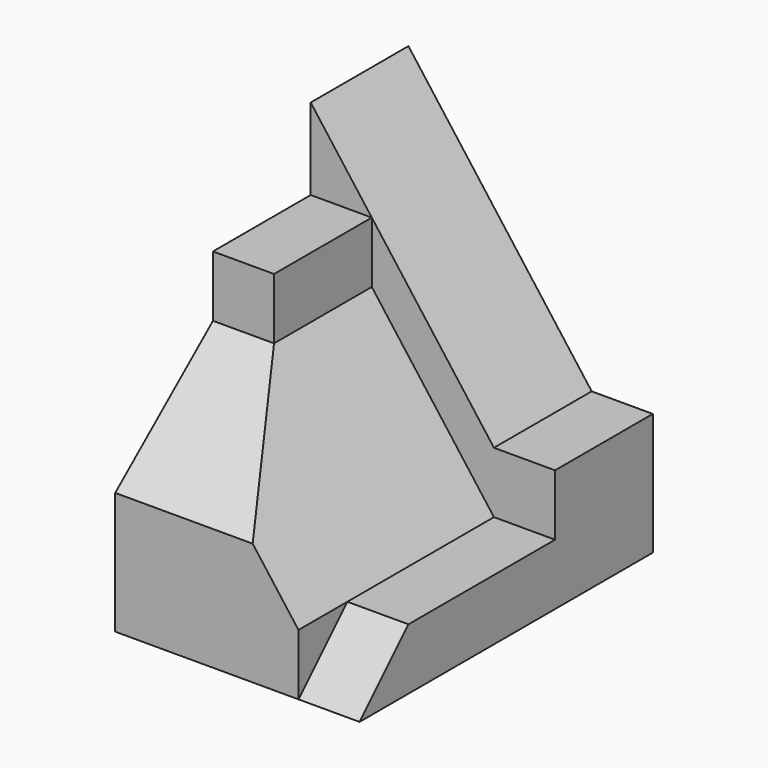
from build123d import *

# Parameters (mm, degrees)
F1_DEPTH = 30
F3_DEPTH = 20
F5_DEPTH = 20.001
F7_DEPTH = 5


with BuildPart() as f1:
    # F0 (on Front) → F1 (new body)
    with BuildSketch(Plane.XZ):
        Polygon((0, 30), (0, 0), (20, 0), (20, 10), (15, 10), align=None)
    extrude(amount=-F1_DEPTH)

    # F2 (on face) → F3 (cut)
    with BuildSketch(Plane.XZ):
        Polygon((0, 30), (0, 23.3333333333), (5, 23.3333333333), align=None)
        Polygon((15, 10), (5, 23.3333333333), (5, 18.3333333333), (15, 5), (20, 5), (20, 10), align=None)
    extrude(amount=-F3_DEPTH, mode=Mode.SUBTRACT)

    # F4 (on face) → F5 (cut, through all)
    with BuildSketch(Plane(origin=(0, 0, 0), x_dir=(0, -1, 0), z_dir=(-1, 0, 0))):
        Polygon((0, 23.3333333333), (-10, 23.3333333333), (-10, 18.3333333333), (0, 10), align=None)
    extrude(amount=-F5_DEPTH, mode=Mode.SUBTRACT)

    # F6 (on face) → F7 (cut, through all)
    with BuildSketch(Plane.YZ.offset(20)):
        Polygon((0, 5), (0, 0), (5, 5), align=None)
    extrude(amount=-F7_DEPTH, mode=Mode.SUBTRACT)


solid = f1.part
